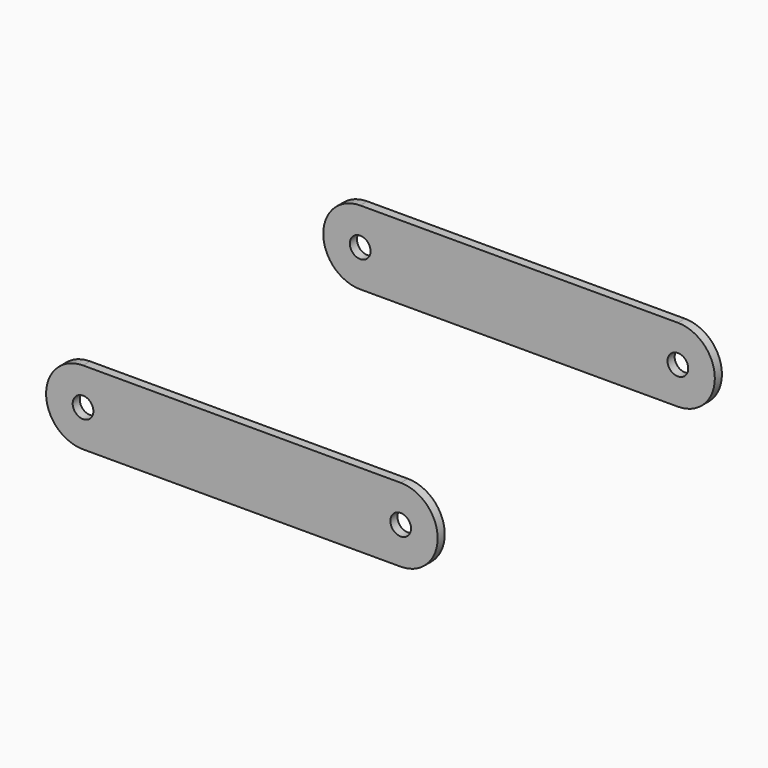
from build123d import *

# Parameters (mm, degrees)
SKETCH036_R  = 7
PAD004_DEPTH = 6


with BuildPart() as body003:
    # Sketch036 → Pad004 (new body)
    with BuildSketch(Plane.XZ):
        with BuildLine():
            Line((0, 25), (215, 25))
            ThreePointArc((215, -25), (240, 0), (215, 25))
            Line((215, -25), (0, -25))
            ThreePointArc((0, 25), (-25, 0), (0, -25))
        make_face()
        Circle(SKETCH036_R, mode=Mode.SUBTRACT)
        with Locations((215, 0)):
            Circle(SKETCH036_R, mode=Mode.SUBTRACT)
    extrude(amount=PAD004_DEPTH)


with BuildPart() as body003_1:
    # Body003 placement: moved
    add(body003.part.moved(Location((0, -114.25, 0))))


with BuildPart() as linkplate:
    # Mirror005: instance of Body003
    add(body003_1.part.mirror(Plane(origin=(-500, 0, 0), x_dir=(-1, 0, 0), z_dir=(0, -1, 0))))

    # Fusion014: union Body003
    add(body003_1.part)


solid = linkplate.part
